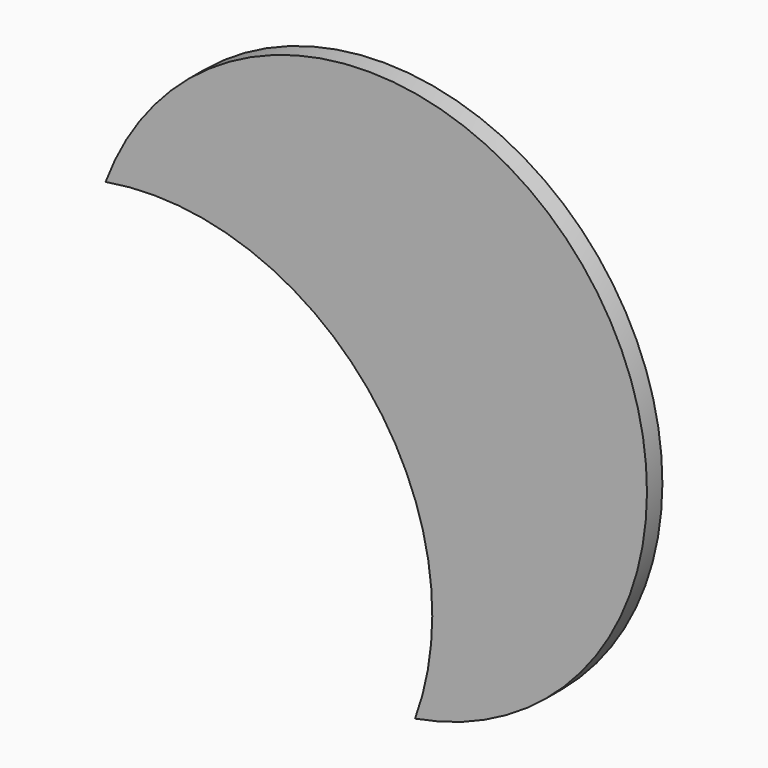
from build123d import *

# Parameters (mm, degrees)
F0_R     = 37.5
F1_DEPTH = 3
F2_R     = 43.5
F3_DEPTH = 3
F5_DEPTH = 25


with BuildPart() as f1:
    # F0 (on Front) → F1 (new body)
    with BuildSketch(Plane.XZ):
        Circle(F0_R)
    extrude(amount=F1_DEPTH)

    # F2 (on face) → F3 (join)
    with BuildSketch(Plane.XZ.offset(3)):
        Circle(F2_R)
    extrude(amount=F3_DEPTH)

    # F4 (on face) → F5 (cut)
    with BuildSketch(Plane(origin=(0, 0, 0), x_dir=(-1, 0, 0), z_dir=(0, 1, 0))):
        with BuildLine():
            ThreePointArc((40.8147967737, 15.0466728654), (0, 0), (-7.376597443, -42.8699872891))
            ThreePointArc((-7.376597443, -42.8699872891), (33.4381993307, -27.8233144237), (40.8147967737, 15.0466728654))
        make_face()
    extrude(amount=-F5_DEPTH, mode=Mode.SUBTRACT)


solid = f1.part
